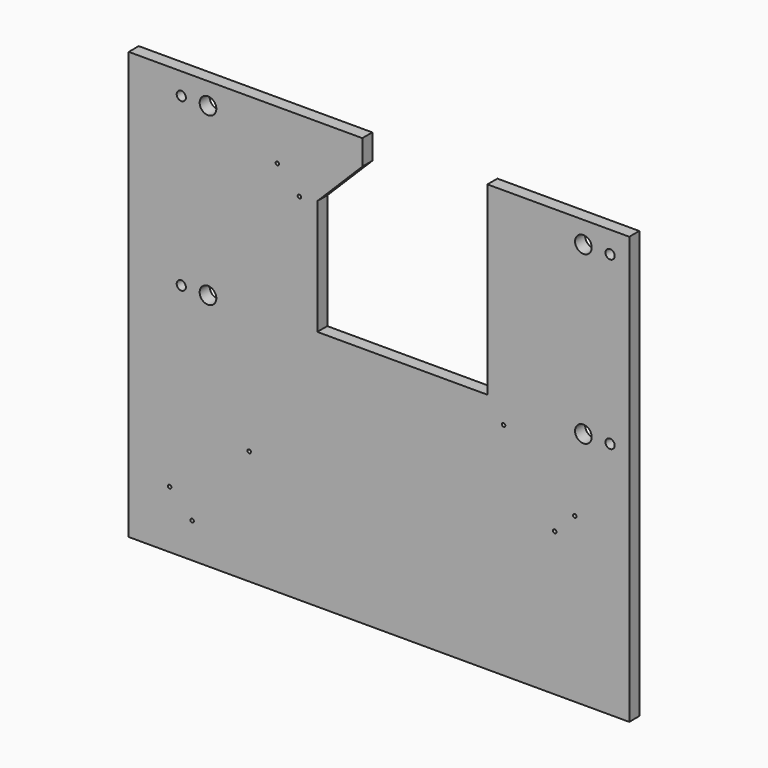
from build123d import *

# Parameters (mm, degrees)
F1_DEPTH = 7.5
F3_D     = 20
F5_D     = 4.2
F7_D     = 11


with BuildPart() as f1:
    # F0 (on Front) → F1 (new body, symmetric)
    with BuildSketch(Plane.XZ):
        Polygon((-300, 222), (-300, -290), (300, -290), (300, 222), (130, 222), (130, 0), (-74, 0), (-74, 138), (-20, 192), (-20, 222), align=None)
    extrude(amount=F1_DEPTH, both=True)

    # F3 (through all)
    with Locations(Plane(origin=(0, 7.5, 0), x_dir=(-1, 0, 0), z_dir=(0, 1, 0))):
        with Locations((-245, 196), (205, 196), (-245, -4), (205, -4)):
            Hole(F3_D / 2)

    # F5 (through all)
    with Locations(Plane(origin=(0, 7.5, 0), x_dir=(-1, 0, 0), z_dir=(0, 1, 0))):
        with Locations((-210.69, -117.89), (-234.73, -93.85), (-149.39, -25.55), (155.66, -152.66), (223.96, -248), (251, -220.96), (95.42, 135.79), (121.9, 162.27)):
            Hole(F5_D / 2)

    # F7 (through all)
    with Locations(Plane(origin=(0, 7.5, 0), x_dir=(-1, 0, 0), z_dir=(0, 1, 0))):
        with Locations((-277, 196), (-277, -4), (237, 196), (237, -4)):
            Hole(F7_D / 2)


solid = f1.part
